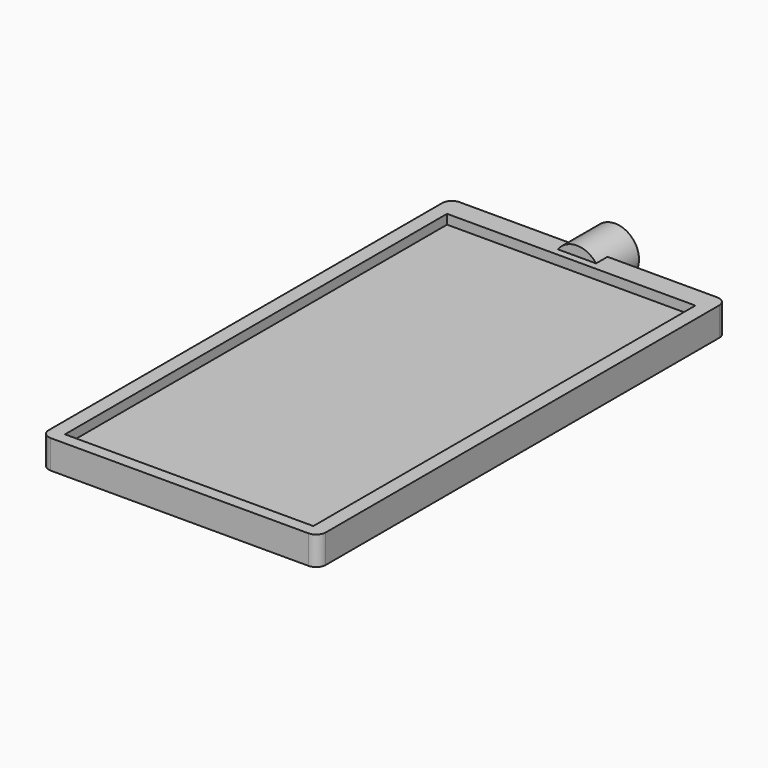
from build123d import *

# Parameters (mm, degrees)
SKETCH005_R       = 2.5
PAD004_DEPTH      = 5
SKETCH006_W       = 29
SKETCH006_H       = 3
PAD005_DEPTH      = 52
PAD005_DEPTH_BACK = 1.5
FILLET001_R       = 1
SKETCH009_W       = 26
SKETCH009_H       = 50
POCKET_DEPTH      = 1


with BuildPart() as part:
    # Sketch005 (on Face1 of CopyPad003) → Pad004 (new body)
    with BuildSketch(Plane.XZ.offset(17.25)):
        with Locations((0, -4)):
            Circle(SKETCH005_R)
    extrude(amount=PAD004_DEPTH)

    # Sketch006 (on Face3 of Pad004) → Pad005 (join, two sides)
    with BuildSketch(Plane.XZ.offset(22.25)) as pad005_sk:
        with Locations((0, -4)):
            Rectangle(SKETCH006_W, SKETCH006_H)
    extrude(amount=PAD005_DEPTH)
    extrude(pad005_sk.sketch, amount=-PAD005_DEPTH_BACK)

    # Fillet001
    fillet001_edges = [part.edges().sort_by_distance(p)[0] for p in [
        (14.5, -74.25, -4),
        (-14.5, -20.75, -4),
        (-14.5, -74.25, -4),
        (14.5, -20.75, -4),
    ]]
    fillet(fillet001_edges, radius=FILLET001_R)

    # Sketch009 (on Face2 of Fillet001) → Pocket (cut)
    with BuildSketch(Plane.XY.offset(-2.5)):
        with Locations((0, -48)):
            Rectangle(SKETCH009_W, SKETCH009_H)
    extrude(amount=-POCKET_DEPTH, mode=Mode.SUBTRACT)


solid = part.part
